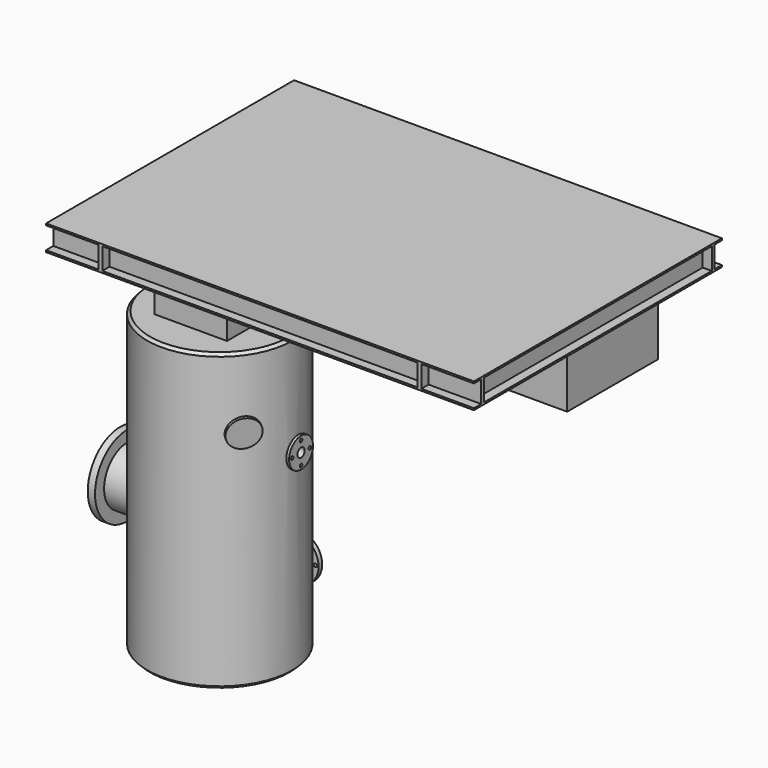
from build123d import *

# Parameters (mm, degrees)
F0_W      = 400
F0_H      = 1630
F2_SIZE   = 15
F3_R      = 75
F4_DEPTH  = 600
F6_R      = 125
F7_DEPTH  = 25
F8_R      = 9
F9_DEPTH  = 25
F10_R     = 160
F11_DEPTH = 550
F12_R     = 222.5
F12_R_2   = 160
F13_DEPTH = 40
F14_SIZE  = 15
F15_R     = 110
F16_DEPTH = 120
F18_R     = 170
F19_DEPTH = 25
F20_R     = 11
F21_DEPTH = 25
F22_W     = 400
F22_H     = 400
F23_DEPTH = 250
F24_W     = 2360
F24_H     = 1710
F25_DEPTH = 140
F31_R     = 30
F32_DEPTH = 100
F33_R     = 82.5
F34_DEPTH = 15
F35_W     = 1740
F35_H     = 120
F35_W_2   = 290
F36_DEPTH = 50
F37_W     = 290
F37_H     = 120
F37_W_2   = 1740
F38_DEPTH = 50
F39_W     = 1570
F39_H     = 120
F40_DEPTH = 50
F41_W     = 1570
F41_H     = 120
F42_DEPTH = 50
F43_R     = 40
F44_DEPTH = 240
F45_R     = 82.5
F46_DEPTH = 15
F47_R     = 9
F48_DEPTH = 25
F49_R     = 25
F50_DEPTH = 500
F51_R     = 65
F55_R     = 125
F55_R_2   = 65
F56_DEPTH = 25
F57_R     = 90
F58_DEPTH = 25
F59_R     = 62.5
F60_DEPTH = 500
F61_R     = 9
F62_DEPTH = 25
F63_R     = 50
F64_DEPTH = 500
F65_R     = 100
F66_DEPTH = 1000
F67_W     = 1831
F67_H     = 626
F68_DEPTH = 542
F69_W     = 700
F69_H     = 626
F70_DEPTH = 61.2
F71_R     = 30
F72_DEPTH = 448.5
F73_R     = 82.5
F73_R_2   = 30
F74_DEPTH = 15
F75_R     = 25
F76_DEPTH = 500
F78_R     = 9
F79_DEPTH = 25


with BuildPart() as f1:
    # F0 (on Front) → F1 (revolve)
    with BuildSketch(Plane.XZ):
        with Locations((200, 815)):
            Rectangle(F0_W, F0_H)
    revolve(axis=Axis((0, 0, 815), (0, 0, 1)))

    # F2
    f2_edges = [f1.edges().sort_by_distance(p)[0] for p in [
        (-400, 0, 1630),
    ]]
    chamfer(f2_edges, length=F2_SIZE)

    # F3 (on Front) → F4 (join)
    with BuildSketch(Plane.XZ):
        with Locations((-320, 998)):
            Circle(F3_R)
    extrude(amount=-F4_DEPTH)

    # F6 (on offset) → F7 (join)
    with BuildSketch(Plane(origin=(0, 560, 0), x_dir=(-1, 0, 0), z_dir=(0, 1, 0))):
        with Locations((320, 998)):
            Circle(F6_R)
    extrude(amount=F7_DEPTH)

    # F8 (on face) → F9 (cut)
    with BuildSketch(Plane(origin=(0, 585, 0), x_dir=(-1, 0, 0), z_dir=(0, 1, 0))):
        with Locations((311.1691780397, 895.8811154413)):
            Circle(F8_R)
        with Locations((385.9646216671, 919.5467101498)):
            Circle(F8_R)
        with Locations((422.1188845587, 989.1691780397)):
            Circle(F8_R)
        with Locations((398.4532898502, 1063.9646216671)):
            Circle(F8_R)
        with Locations((328.8308219603, 1100.1188845587)):
            Circle(F8_R)
        with Locations((254.0353783329, 1076.4532898502)):
            Circle(F8_R)
        with Locations((217.8811154413, 1006.8308219603)):
            Circle(F8_R)
        with Locations((241.5467101498, 932.0353783329)):
            Circle(F8_R)
    extrude(amount=-F9_DEPTH, mode=Mode.SUBTRACT)

    # F10 (on Right) → F11 (join)
    with BuildSketch(Plane.YZ):
        with Locations((0, 665)):
            Circle(F10_R)
    extrude(amount=-F11_DEPTH)

    # F12 (on face) → F13 (join)
    with BuildSketch(Plane(origin=(-550, 0, 0), x_dir=(0, -1, 0), z_dir=(-1, 0, 0))):
        with Locations((0, 665)):
            Circle(F12_R)
        with Locations((0, 665)):
            Circle(F12_R_2, mode=Mode.SUBTRACT)
        with Locations((0, 665)):
            Circle(F12_R_2)
    extrude(amount=-F13_DEPTH)

    # F14
    f14_edges = [f1.edges().sort_by_distance(p)[0] for p in [
        (-400, 0, 0),
    ]]
    chamfer(f14_edges, length=F14_SIZE)

    # F15 (on face) → F16 (join)
    with BuildSketch(Plane(origin=(0, 0, 0), x_dir=(1, 0, 0), z_dir=(0, 0, -1))):
        Circle(F15_R)
    extrude(amount=F16_DEPTH)

    # F18 (on offset) → F19 (join)
    with BuildSketch(Plane(origin=(0, 0, -95), x_dir=(1, 0, 0), z_dir=(0, 0, -1))):
        Circle(F18_R)
    extrude(amount=-F19_DEPTH)

    # F20 (on face) → F21 (cut)
    with BuildSketch(Plane(origin=(0, 0, -95), x_dir=(1, 0, 0), z_dir=(0, 0, -1))):
        with Locations((0, 147.5)):
            Circle(F20_R)
        with Locations((-104.298250225, 104.298250225)):
            Circle(F20_R)
        with Locations((-147.5, 0)):
            Circle(F20_R)
        with Locations((-104.298250225, -104.298250225)):
            Circle(F20_R)
        with Locations((0, -147.5)):
            Circle(F20_R)
        with Locations((104.298250225, -104.298250225)):
            Circle(F20_R)
        with Locations((147.5, 0)):
            Circle(F20_R)
        with Locations((104.298250225, 104.298250225)):
            Circle(F20_R)
    extrude(amount=-F21_DEPTH, mode=Mode.SUBTRACT)

    # F22 (on face) → F23 (join)
    with BuildSketch(Plane.XY.offset(1630)):
        Rectangle(F22_W, F22_H)
    extrude(amount=F23_DEPTH)

    # F24 (on face) → F25 (join)
    with BuildSketch(Plane.XY.offset(1880)):
        with Locations((554, 440)):
            Rectangle(F24_W, F24_H)
    extrude(amount=F25_DEPTH)

    # F31 (on face) → F32 (join)
    with BuildSketch(Plane(origin=(87.178578445, -68.1113702784, -19.5072661754), x_dir=(0.5916766296, 0.7952297616, -0.1323948349), z_dir=(0.7760390996, -0.6063081941, -0.1736481777))):
        with Locations((-177.9456883669, 1311.4417791367)):
            Circle(F31_R)
    extrude(amount=F32_DEPTH)

    # F33 (on face) → F34 (join)
    with BuildSketch(Plane(origin=(164.7824884059, -128.7421896915, -36.8720839421), x_dir=(0.5916766296, 0.7952297616, -0.1323948349), z_dir=(0.7760390996, -0.6063081941, -0.1736481777))):
        with Locations((-177.9456883669, 1311.4417791367)):
            Circle(F33_R)
    extrude(amount=F34_DEPTH)

    # F35 (on face) → F36 (cut)
    with BuildSketch(Plane(origin=(0, 1295, 0), x_dir=(-1, 0, 0), z_dir=(0, 1, 0))):
        with Locations((-554, 1950)):
            Rectangle(F35_W, F35_H)
        with Locations((481, 1950)):
            Rectangle(F35_W_2, F35_H)
        with Locations((-1589, 1950)):
            Rectangle(F35_W_2, F35_H)
    extrude(amount=-F36_DEPTH, mode=Mode.SUBTRACT)

    # F37 (on face) → F38 (cut)
    with BuildSketch(Plane.XZ.offset(415)):
        with Locations((1589, 1950)):
            Rectangle(F37_W, F37_H)
        with Locations((554, 1950)):
            Rectangle(F37_W_2, F37_H)
        with Locations((-481, 1950)):
            Rectangle(F37_W, F37_H)
    extrude(amount=-F38_DEPTH, mode=Mode.SUBTRACT)

    # F39 (on face) → F40 (cut)
    with BuildSketch(Plane.YZ.offset(1734)):
        with Locations((440, 1950)):
            Rectangle(F39_W, F39_H)
    extrude(amount=-F40_DEPTH, mode=Mode.SUBTRACT)

    # F41 (on face) → F42 (cut)
    with BuildSketch(Plane(origin=(-626, 0, 0), x_dir=(0, -1, 0), z_dir=(-1, 0, 0))):
        with Locations((-440, 1950)):
            Rectangle(F41_W, F41_H)
    extrude(amount=-F42_DEPTH, mode=Mode.SUBTRACT)

    # F43 (on face) → F44 (join)
    with BuildSketch(Plane.YZ.offset(200)):
        with Locations((0, 1780)):
            Circle(F43_R)
    extrude(amount=F44_DEPTH)

    # F45 (on face) → F46 (join)
    with BuildSketch(Plane.YZ.offset(440)):
        with Locations((0, 1780)):
            Circle(F45_R)
    extrude(amount=F46_DEPTH)

    # F47 (on face) → F48 (cut)
    with BuildSketch(Plane.YZ.offset(455)):
        with Locations((0, 1717.5)):
            Circle(F47_R)
        with Locations((62.5, 1780)):
            Circle(F47_R)
        with Locations((0, 1842.5)):
            Circle(F47_R)
        with Locations((-62.5, 1780)):
            Circle(F47_R)
    extrude(amount=-F48_DEPTH, mode=Mode.SUBTRACT)

    # F49 (on face) → F50 (cut)
    with BuildSketch(Plane.YZ.offset(455)):
        with Locations((0, 1780)):
            Circle(F49_R)
    extrude(amount=-F50_DEPTH, mode=Mode.SUBTRACT)

    # F54: sweep along a path in F53
    with BuildLine(Plane.XY.offset(216)) as f54_path:
        Line((0, 0), (0, 550))
    # F51 (on Front) → F54 (sweep)
    with BuildSketch(Plane.XZ):
        with Locations((0, 216)):
            Circle(F51_R)
    sweep(path=f54_path.line)

    # F55 (on face) → F56 (join)
    with BuildSketch(Plane(origin=(0, 550, 0), x_dir=(-1, 0, 0), z_dir=(0, 1, 0))):
        with Locations((0, 216)):
            Circle(F55_R)
        with Locations((0, 216)):
            Circle(F55_R_2, mode=Mode.SUBTRACT)
    extrude(amount=-F56_DEPTH)

    # F57 (on face) → F58 (join)
    with BuildSketch(Plane(origin=(0, 550, 0), x_dir=(-1, 0, 0), z_dir=(0, 1, 0))):
        with Locations((0, 216)):
            Circle(F57_R)
    extrude(amount=F58_DEPTH)

    # F59 (on face) → F60 (cut)
    with BuildSketch(Plane(origin=(0, 575, 0), x_dir=(-1, 0, 0), z_dir=(0, 1, 0))):
        with Locations((0, 216)):
            Circle(F59_R)
    extrude(amount=-F60_DEPTH, mode=Mode.SUBTRACT)

    # F61 (on face) → F62 (cut)
    with BuildSketch(Plane(origin=(0, 550, 0), x_dir=(-1, 0, 0), z_dir=(0, 1, 0))):
        with Locations((0, 108.5306107998)):
            Circle(F61_R)
        with Locations((75.9923338734, 140.0076661266)):
            Circle(F61_R)
        with Locations((107.4693892002, 216)):
            Circle(F61_R)
        with Locations((75.9923338734, 291.9923338734)):
            Circle(F61_R)
        with Locations((0, 323.4693892002)):
            Circle(F61_R)
        with Locations((-75.9923338734, 291.9923338734)):
            Circle(F61_R)
        with Locations((-107.4693892002, 216)):
            Circle(F61_R)
        with Locations((-75.9923338734, 140.0076661266)):
            Circle(F61_R)
    extrude(amount=-F62_DEPTH, mode=Mode.SUBTRACT)

    # F63 (on face) → F64 (cut)
    with BuildSketch(Plane(origin=(0, 600, 0), x_dir=(-1, 0, 0), z_dir=(0, 1, 0))):
        with Locations((320, 998)):
            Circle(F63_R)
    extrude(amount=-F64_DEPTH, mode=Mode.SUBTRACT)

    # F65 (on face) → F66 (cut)
    with BuildSketch(Plane(origin=(0, 0, -120), x_dir=(1, 0, 0), z_dir=(0, 0, -1))):
        Circle(F65_R)
    extrude(amount=-F66_DEPTH, mode=Mode.SUBTRACT)

    # F67 (on face) → F68 (join)
    with BuildSketch(Plane(origin=(0, 0, 1880), x_dir=(1, 0, 0), z_dir=(0, 0, -1))):
        with Locations((490.5, -951)):
            Rectangle(F67_W, F67_H)
    extrude(amount=F68_DEPTH)

    # F69 (on face) → F70 (join)
    with BuildSketch(Plane(origin=(0, 0, 1338), x_dir=(1, 0, 0), z_dir=(0, 0, -1))):
        with Locations((-75, -951)):
            Rectangle(F69_W, F69_H)
    extrude(amount=F70_DEPTH)

    # F71 (on Right) → F72 (join)
    with BuildSketch(Plane.YZ):
        with Locations((0, 1087.4)):
            Circle(F71_R)
    extrude(amount=F72_DEPTH)

    # F73 (on face) → F74 (join)
    with BuildSketch(Plane.YZ.offset(448.5)):
        with Locations((0, 1087.4)):
            Circle(F73_R)
        with Locations((0, 1087.4)):
            Circle(F73_R_2, mode=Mode.SUBTRACT)
    extrude(amount=-F74_DEPTH)

    # F75 (on face) → F76 (cut)
    with BuildSketch(Plane.YZ.offset(448.5)):
        with Locations((0, 1087.4)):
            Circle(F75_R)
    extrude(amount=-F76_DEPTH, mode=Mode.SUBTRACT)

    # F78 (on face) → F79 (cut)
    with BuildSketch(Plane.YZ.offset(448.5)):
        with Locations((0, 1024.9)):
            Circle(F78_R)
        with Locations((61.1, 1086)):
            Circle(F78_R)
        with Locations((0, 1147.1)):
            Circle(F78_R)
        with Locations((-61.1, 1086)):
            Circle(F78_R)
    extrude(amount=-F79_DEPTH, mode=Mode.SUBTRACT)


solid = f1.part
